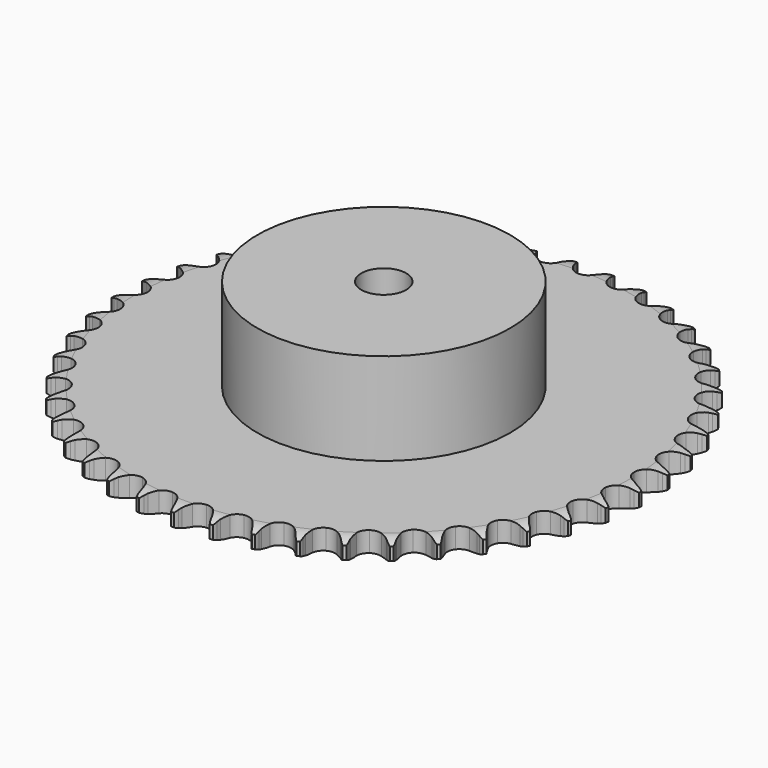
from build123d import *

# Parameters (mm, degrees)
PAD_DEPTH         = 7.2
SKETCH001_R       = 45
PAD001_DEPTH      = 40
SKETCH002_R       = 8
POCKET_DEPTH      = 0.001
POCKET_DEPTH_BACK = 40.001


with BuildPart() as part:
    # Sprocket → Pad (new body)
    with BuildSketch(Plane.XY):
        with BuildLine():
            ThreePointArc((-6.615982, 94.612948), (-5.918662, 93.611701), (-5.409379, 92.502926))
            Line((-5.409379, 92.502926), (-4.994949, 91.337641))
            ThreePointArc((-4.994949, 91.337641), (-4.340108, 89.850575), (-3.47559, 88.474788))
            ThreePointArc((-3.47559, 88.474788), (-1.947495, 87.18116), (0, 86.716603))
            ThreePointArc((0, 86.716603), (1.947495, 87.18116), (3.47559, 88.474788))
            ThreePointArc((3.47559, 88.474788), (4.340108, 89.850575), (4.994949, 91.337641))
            Line((4.994949, 91.337641), (5.409379, 92.502926))
            ThreePointArc((5.409379, 92.502926), (5.918662, 93.611701), (6.615982, 94.612948))
            ThreePointArc((6.615982, 94.612948), (7.167169, 93.524397), (7.517184, 92.355534))
            Line((7.517184, 92.355534), (7.765405, 91.143912))
            ThreePointArc((7.765405, 91.143912), (8.206913, 89.580182), (8.871545, 88.097466))
            ThreePointArc((8.871545, 88.097466), (10.20473, 86.603758), (12.068618, 85.872683))
            ThreePointArc((12.068618, 85.872683), (14.061814, 86.06168), (15.755077, 87.130049))
            Line((15.755077, 87.130049), (17.658081, 89.753587))
            ThreePointArc((17.658081, 89.753587), (17.929118, 90.309685), (18.230654, 90.849854))
            ThreePointArc((18.230654, 90.849854), (18.889293, 91.87696), (19.719173, 92.771414))
            ThreePointArc((19.719173, 92.771414), (20.113499, 91.616747), (20.297433, 90.410547))
            Line((20.297433, 90.410547), (20.374613, 89.17617))
            ThreePointArc((20.374613, 89.17617), (20.594196, 87.566212), (21.046005, 86.005428))
            ThreePointArc((21.046005, 86.005428), (22.158332, 84.340712), (23.902335, 83.357348))
            ThreePointArc((23.902335, 83.357348), (25.902437, 83.267107), (27.727909, 84.089423))
            Line((27.727909, 84.089423), (29.977518, 86.422581))
            ThreePointArc((29.977518, 86.422581), (30.323312, 86.935547), (30.697091, 87.428493))
            ThreePointArc((30.697091, 87.428493), (31.492265, 88.353938), (32.438553, 89.124191))
            ThreePointArc((32.438553, 89.124191), (32.668342, 87.925881), (32.682616, 86.705821))
            Line((32.682616, 86.705821), (32.587253, 85.472715))
            ThreePointArc((32.587253, 85.472715), (32.580636, 83.847866), (32.810829, 82.239391))
            ThreePointArc((32.810829, 82.239391), (33.680647, 80.43607), (35.27082, 79.219558))
            ThreePointArc((35.27082, 79.219558), (37.238897, 78.851835), (39.161048, 79.412091))
            Line((39.161048, 79.412091), (41.713478, 81.409458))
            ThreePointArc((41.713478, 81.409458), (42.127297, 81.869307), (42.566043, 82.305436))
            ThreePointArc((42.566043, 82.305436), (43.482276, 83.111207), (44.526553, 83.742266))
            ThreePointArc((44.526553, 83.742266), (44.587334, 82.523638), (44.431669, 81.313465))
            Line((44.431669, 81.313465), (44.165619, 80.105632))
            ThreePointArc((44.165619, 80.105632), (43.932931, 78.497516), (43.937027, 76.872658))
            ThreePointArc((43.937027, 76.872658), (44.547407, 74.965832), (45.952798, 73.53985))
            ThreePointArc((45.952798, 73.53985), (47.850545, 72.901802), (49.831962, 73.189094))
            Line((49.831962, 73.189094), (52.637532, 74.811793))
            ThreePointArc((52.637532, 74.811793), (53.111322, 75.209574), (53.606496, 75.580397))
            ThreePointArc((53.606496, 75.580397), (54.625954, 76.250812), (55.747894, 76.730394))
            ThreePointArc((55.747894, 76.730394), (55.638483, 75.515166), (55.31591, 74.338435))
            Line((55.31591, 74.338435), (54.884351, 73.179383))
            ThreePointArc((54.884351, 73.179383), (54.430121, 71.619301), (54.208041, 70.009686))
            ThreePointArc((54.208041, 70.009686), (54.547102, 68.036469), (55.740358, 66.428772))
            ThreePointArc((55.740358, 66.428772), (57.530837, 65.532818), (59.532954, 65.541554))
            Line((59.532954, 65.541554), (62.537056, 66.758001))
            ThreePointArc((62.537056, 66.758001), (63.061596, 67.085972), (63.60356, 67.384271))
            ThreePointArc((63.60356, 67.384271), (64.7064, 67.906281), (65.884167, 68.225052))
            ThreePointArc((65.884167, 68.225052), (65.606693, 67.036877), (65.12349, 65.916491))
            Line((65.12349, 65.916491), (64.534822, 64.828781))
            ThreePointArc((64.534822, 64.828781), (63.867891, 63.347099), (63.423957, 61.784056))
            ThreePointArc((63.423957, 61.784056), (63.4851, 59.782853), (64.442995, 58.024733))
            ThreePointArc((64.442995, 58.024733), (66.091356, 56.888312), (68.075205, 56.618322))
            Line((68.075205, 56.618322), (71.219368, 57.404841))
            ThreePointArc((71.219368, 57.404841), (71.784448, 57.656618), (72.362652, 57.876587))
            ThreePointArc((72.362652, 57.876587), (73.527409, 58.240031), (74.738078, 58.391786))
            ThreePointArc((74.738078, 58.391786), (74.297943, 57.253792), (73.663515, 56.211558))
            Line((73.663515, 56.211558), (72.929196, 55.216361))
            ThreePointArc((72.929196, 55.216361), (72.062545, 53.841916), (71.405398, 52.355869))
            ThreePointArc((71.405398, 52.355869), (71.187432, 50.365632), (71.891322, 48.491309))
            ThreePointArc((71.891322, 48.491309), (73.365483, 47.13654), (75.292449, 46.593079))
            Line((75.292449, 46.593079), (78.515476, 46.93436))
            ThreePointArc((78.515476, 46.93436), (79.110097, 47.105043), (79.713288, 47.242402))
            ThreePointArc((79.713288, 47.242402), (80.917291, 47.440206), (82.137298, 47.421991))
            ThreePointArc((82.137298, 47.421991), (81.543069, 46.356327), (80.769764, 45.412532))
            Line((80.769764, 45.412532), (79.904086, 44.529216))
            ThreePointArc((79.904086, 44.529216), (78.854584, 43.288763), (77.997014, 41.908634))
            ThreePointArc((77.997014, 41.908634), (77.504182, 39.968102), (77.940366, 38.014057))
            ThreePointArc((77.940366, 38.014057), (79.211633, 36.467308), (81.044211, 35.660955))
            Line((81.044211, 35.660955), (84.283369, 35.550356))
            ThreePointArc((84.283369, 35.550356), (84.895958, 35.636623), (85.512395, 35.688696))
            ThreePointArc((85.512395, 35.688696), (86.73221, 35.717011), (87.93781, 35.529181))
            ThreePointArc((87.93781, 35.529181), (87.201051, 34.556589), (86.303921, 33.729601))
            Line((86.303921, 33.729601), (85.323734, 32.975362))
            ThreePointArc((85.323734, 32.975362), (84.111808, 31.893042), (83.070507, 30.645696))
            ThreePointArc((83.070507, 30.645696), (82.312401, 28.792638), (82.47239, 26.796904))
            ThreePointArc((82.47239, 26.796904), (83.516019, 25.088282), (85.21854, 24.03473))
            Line((85.21854, 24.03473), (88.410782, 23.474405))
            ThreePointArc((88.410782, 23.474405), (89.029415, 23.474576), (89.647101, 23.440351))
            ThreePointArc((89.647101, 23.440351), (90.858985, 23.298624), (92.026711, 22.944836))
            ThreePointArc((92.026711, 22.944836), (91.161764, 22.084245), (90.15827, 21.390163))
            Line((90.15827, 21.390163), (89.082653, 20.779679))
            ThreePointArc((89.082653, 20.779679), (87.731891, 19.87656), (86.527128, 18.786274))
            ThreePointArc((86.527128, 18.786274), (85.518503, 17.056758), (85.399183, 15.05818))
            ThreePointArc((85.399183, 15.05818), (86.194861, 13.220942), (87.734187, 11.940697))
            Line((87.734187, 11.940697), (90.81738, 10.941551))
            ThreePointArc((90.81738, 10.941551), (91.430017, 10.855623), (92.036928, 10.735766))
            ThreePointArc((92.036928, 10.735766), (93.217294, 10.426757), (94.324418, 9.913896))
            ThreePointArc((94.324418, 9.913896), (93.348117, 9.182058), (92.257792, 8.634389))
            Line((92.257792, 8.634389), (91.107679, 8.179543))
            ThreePointArc((91.107679, 8.179543), (89.644373, 7.473204), (88.299596, 6.561199))
            ThreePointArc((88.299596, 6.561199), (87.060085, 4.988887), (86.663777, 3.026366))
            ThreePointArc((86.663777, 3.026366), (87.196018, 1.09627), (88.542188, -0.385747))
            Line((88.542188, -0.385747), (91.456321, -1.804268))
            ThreePointArc((91.456321, -1.804268), (92.051037, -1.974622), (92.635361, -2.177778))
            ThreePointArc((92.635361, -2.177778), (93.761233, -2.648055), (94.786206, -3.310007))
            ThreePointArc((94.786206, -3.310007), (93.717555, -3.898848), (92.56162, -4.289443))
            Line((92.56162, -4.289443), (91.359398, -4.579798))
            ThreePointArc((91.359398, -4.579798), (89.812029, -5.07561), (88.353412, -5.791583))
            ThreePointArc((88.353412, -5.791583), (86.907141, -7.176086), (86.24156, -9.064353))
            ThreePointArc((86.24156, -9.064353), (86.500004, -11.049739), (87.626816, -12.704684))
            Line((87.626816, -12.704684), (90.315169, -14.514969))
            ThreePointArc((90.315169, -14.514969), (90.880388, -14.766433), (91.430752, -15.048935))
            ThreePointArc((91.430752, -15.048935), (92.480218, -15.671326), (93.40309, -16.469485))
            ThreePointArc((93.40309, -16.469485), (92.262887, -16.903868), (91.063841, -17.129786))
            Line((91.063841, -17.129786), (89.83291, -17.249998))
            ThreePointArc((89.83291, -17.249998), (88.231596, -17.525634), (86.68753, -18.031638))
            ThreePointArc((86.68753, -18.031638), (85.062649, -19.201386), (84.140749, -20.978645))
            ThreePointArc((84.140749, -20.978645), (84.120365, -22.980677), (85.005888, -24.776339))
            Line((85.005888, -24.776339), (87.416135, -26.943152))
            ThreePointArc((87.416135, -26.943152), (87.940856, -27.270833), (88.446547, -27.627181))
            ThreePointArc((88.446547, -27.627181), (89.399179, -28.389573), (90.201988, -29.308402))
            ThreePointArc((90.201988, -29.308402), (89.012427, -29.579873), (87.793609, -29.636717))
            Line((87.793609, -29.636717), (86.557926, -29.584447))
            ThreePointArc((86.557926, -29.584447), (84.933836, -29.63454), (83.334374, -29.920728))
            ThreePointArc((83.334374, -29.920728), (81.562508, -30.852952), (80.402234, -32.484611))
            ThreePointArc((80.402234, -32.484611), (80.10342, -34.464323), (80.730416, -36.36575))
            Line((80.730416, -36.36575), (82.815645, -38.846918))
            ThreePointArc((82.815645, -38.846918), (83.289655, -39.244437), (83.740831, -39.667695))
            ThreePointArc((83.740831, -39.667695), (84.578088, -40.555248), (85.245207, -41.576865))
            ThreePointArc((85.245207, -41.576865), (84.029442, -41.680139), (82.814574, -41.566804))
            Line((82.814574, -41.566804), (81.598191, -41.343068))
            ThreePointArc((81.598191, -41.343068), (79.982935, -41.166644), (78.359209, -41.227445))
            ThreePointArc((78.359209, -41.227445), (76.474847, -41.904), (75.098781, -43.358301))
            ThreePointArc((75.098781, -43.358301), (74.527352, -45.27716), (74.883619, -47.247344))
            Line((74.883619, -47.247344), (76.603243, -49.994573))
            ThreePointArc((76.603243, -49.994573), (77.017316, -50.454192), (77.405195, -50.936123))
            ThreePointArc((77.405195, -50.936123), (78.11078, -51.931562), (78.629225, -53.036082))
            ThreePointArc((78.629225, -53.036082), (77.410919, -52.969149), (76.223647, -52.687839))
            Line((76.223647, -52.687839), (75.05024, -52.296993))
            ThreePointArc((75.05024, -52.296993), (73.475257, -51.897486), (71.858872, -51.731716))
            ThreePointArc((71.858872, -51.731716), (69.898689, -52.139435), (68.333615, -53.388072))
            ThreePointArc((68.333615, -53.388072), (67.500694, -55.208728), (67.579298, -57.209321))
            Line((67.579298, -57.209321), (68.899846, -60.16914))
            ThreePointArc((68.899846, -60.16914), (69.245923, -60.681914), (69.562955, -61.213137))
            ThreePointArc((69.562955, -61.213137), (70.123135, -62.297087), (70.482815, -63.463012))
            ThreePointArc((70.482815, -63.463012), (69.285681, -63.227174), (68.149114, -62.783366))
            Line((68.149114, -62.783366), (67.041522, -62.233017))
            ThreePointArc((67.041522, -62.233017), (65.537466, -61.618203), (63.959883, -61.229089))
            ThreePointArc((63.959883, -61.229089), (61.962033, -61.360035), (60.238414, -62.378704))
            ThreePointArc((60.238414, -62.378704), (59.160212, -64.065722), (58.959622, -66.057784))
            Line((58.959622, -66.057784), (59.855391, -69.172583))
            ThreePointArc((59.855391, -69.172583), (60.126736, -69.728532), (60.366751, -70.298707))
            ThreePointArc((60.366751, -70.298707), (60.770622, -71.45007), (60.964537, -72.654706))
            ThreePointArc((60.964537, -72.654706), (59.811875, -72.254555), (58.748135, -71.656886))
            Line((58.748135, -71.656886), (57.727916, -70.957746))
            ThreePointArc((57.727916, -70.957746), (56.324064, -70.139591), (54.815987, -69.534707))
            ThreePointArc((54.815987, -69.534707), (52.819357, -69.386331), (50.97074, -70.155205))
            ThreePointArc((50.97074, -70.155205), (49.668244, -71.675749), (49.192364, -73.620508))
            Line((49.192364, -73.620508), (49.64592, -76.829661))
            ThreePointArc((49.64592, -76.829661), (49.837251, -77.417963), (49.995576, -78.015993))
            ThreePointArc((49.995576, -78.015993), (50.235279, -79.212359), (50.259654, -80.432259))
            ThreePointArc((50.259654, -80.432259), (49.1739, -79.875582), (48.203692, -79.135687))
            Line((48.203692, -79.135687), (47.290703, -78.301364))
            ThreePointArc((47.290703, -78.301364), (46.014378, -77.295792), (44.605161, -76.486911))
            ThreePointArc((44.605161, -76.486911), (42.648611, -76.062102), (40.710979, -76.566216))
            ThreePointArc((40.710979, -76.566216), (39.20954, -77.890689), (38.467633, -79.750292))
            Line((38.467633, -79.750292), (38.470147, -82.991336))
            ThreePointArc((38.470147, -82.991336), (38.57774, -83.600541), (38.651295, -84.214786))
            ThreePointArc((38.651295, -84.214786), (38.722163, -85.432869), (38.576523, -86.64429))
            ThreePointArc((38.576523, -86.64429), (37.57881, -85.941923), (36.721018, -85.074201))
            Line((36.721018, -85.074201), (35.933029, -84.120934))
            ThreePointArc((35.933029, -84.120934), (34.809074, -82.947518), (33.526146, -81.950384))
            ThreePointArc((33.526146, -81.950384), (31.647759, -81.25741), (29.658825, -81.486952))
            ThreePointArc((29.658825, -81.486952), (27.987666, -82.589575), (26.994173, -84.327828))
            Line((26.994173, -84.327828), (26.545597, -87.53768))
            ThreePointArc((26.545597, -87.53768), (26.567358, -88.15593), (26.554711, -88.774434))
            ThreePointArc((26.554711, -88.774434), (26.455364, -89.990526), (26.142545, -91.169888))
            ThreePointArc((26.142545, -91.169888), (25.252292, -90.335502), (24.523611, -89.356842))
            Line((24.523611, -89.356842), (23.87596, -88.303186))
            ThreePointArc((23.87596, -88.303186), (22.926251, -86.984766), (21.794583, -85.818786))
            ThreePointArc((21.794583, -85.818786), (20.03092, -84.871136), (18.029395, -84.821637))
            ThreePointArc((18.029395, -84.821637), (16.221045, -85.680949), (14.995303, -87.264018))
            Line((14.995303, -87.264018), (14.104366, -90.380202))
            ThreePointArc((14.104366, -90.380202), (14.039872, -90.995464), (13.941269, -91.606189))
            ThreePointArc((13.941269, -91.606189), (13.673642, -92.79662), (13.199731, -93.920968))
            ThreePointArc((13.199731, -93.920968), (12.434267, -92.970802), (11.84888, -91.900255))
            Line((11.84888, -91.900255), (11.354173, -90.766717))
            ThreePointArc((11.354173, -90.766717), (10.597195, -89.328953), (9.638813, -88.016823))
            ThreePointArc((9.638813, -88.016823), (8.024201, -86.832941), (6.049044, -86.505365))
            ThreePointArc((6.049044, -86.505365), (4.138699, -87.104641), (2.704565, -88.501713))
            Line((2.704565, -88.501713), (1.388611, -91.463577))
            ThreePointArc((1.388611, -91.463577), (1.239116, -92.063875), (1.056476, -92.654933))
            ThreePointArc((1.056476, -92.654933), (0.625778, -93.796532), (0, -94.843983))
            ThreePointArc((0, -94.843983), (-0.625778, -93.796532), (-1.056476, -92.654933))
            Line((-1.056476, -92.654933), (-1.388611, -91.463577))
            ThreePointArc((-1.388611, -91.463577), (-1.938124, -89.934454), (-2.704565, -88.501713))
            ThreePointArc((-2.704565, -88.501713), (-4.138699, -87.104641), (-6.049044, -86.505365))
            ThreePointArc((-6.049044, -86.505365), (-8.024201, -86.832941), (-9.638813, -88.016823))
            Line((-9.638813, -88.016823), (-11.354173, -90.766717))
            ThreePointArc((-11.354173, -90.766717), (-11.585758, -91.340367), (-11.84888, -91.900255))
            ThreePointArc((-11.84888, -91.900255), (-12.434267, -92.970802), (-13.199731, -93.920968))
            ThreePointArc((-13.199731, -93.920968), (-13.673642, -92.79662), (-13.941269, -91.606189))
            Line((-13.941269, -91.606189), (-14.104366, -90.380202))
            ThreePointArc((-14.104366, -90.380202), (-14.435719, -88.789484), (-14.995303, -87.264018))
            ThreePointArc((-14.995303, -87.264018), (-16.221045, -85.680949), (-18.029395, -84.821637))
            ThreePointArc((-18.029395, -84.821637), (-20.03092, -84.871136), (-21.794583, -85.818786))
            Line((-21.794583, -85.818786), (-23.87596, -88.303186))
            ThreePointArc((-23.87596, -88.303186), (-24.185129, -88.839023), (-24.523611, -89.356842))
            ThreePointArc((-24.523611, -89.356842), (-25.252292, -90.335502), (-26.142545, -91.169888))
            ThreePointArc((-26.142545, -91.169888), (-26.455364, -89.990526), (-26.554711, -88.774434))
            Line((-26.554711, -88.774434), (-26.545597, -87.53768))
            ThreePointArc((-26.545597, -87.53768), (-26.652339, -85.916327), (-26.994173, -84.327828))
            ThreePointArc((-26.994173, -84.327828), (-27.987666, -82.589575), (-29.658825, -81.486952))
            ThreePointArc((-29.658825, -81.486952), (-31.647759, -81.25741), (-33.526146, -81.950384))
            Line((-33.526146, -81.950384), (-35.933029, -84.120934))
            ThreePointArc((-35.933029, -84.120934), (-36.313763, -84.608529), (-36.721018, -85.074201))
            ThreePointArc((-36.721018, -85.074201), (-37.57881, -85.941923), (-38.576523, -86.64429))
            ThreePointArc((-38.576523, -86.64429), (-38.722163, -85.432869), (-38.651295, -84.214786))
            Line((-38.651295, -84.214786), (-38.470147, -82.991336))
            ThreePointArc((-38.470147, -82.991336), (-38.350202, -81.370906), (-38.467633, -79.750292))
            ThreePointArc((-38.467633, -79.750292), (-39.20954, -77.890689), (-40.710979, -76.566216))
            ThreePointArc((-40.710979, -76.566216), (-42.648611, -76.062102), (-44.605161, -76.486911))
            Line((-44.605161, -76.486911), (-47.290703, -78.301364))
            ThreePointArc((-47.290703, -78.301364), (-47.735591, -78.731225), (-48.203692, -79.135687))
            ThreePointArc((-48.203692, -79.135687), (-49.1739, -79.875582), (-50.259654, -80.432259))
            ThreePointArc((-50.259654, -80.432259), (-50.235279, -79.212359), (-49.995576, -78.015993))
            Line((-49.995576, -78.015993), (-49.64592, -76.829661))
            ThreePointArc((-49.64592, -76.829661), (-49.301622, -75.241694), (-49.192364, -73.620508))
            ThreePointArc((-49.192364, -73.620508), (-49.668244, -71.675749), (-50.97074, -70.155205))
            ThreePointArc((-50.97074, -70.155205), (-52.819357, -69.386331), (-54.815987, -69.534707))
            Line((-54.815987, -69.534707), (-57.727916, -70.957746))
            ThreePointArc((-57.727916, -70.957746), (-58.228301, -71.321508), (-58.748135, -71.656886))
            ThreePointArc((-58.748135, -71.656886), (-59.811875, -72.254555), (-60.964537, -72.654706))
            ThreePointArc((-60.964537, -72.654706), (-60.770622, -71.45007), (-60.366751, -70.298707))
            Line((-60.366751, -70.298707), (-59.855391, -69.172583))
            ThreePointArc((-59.855391, -69.172583), (-59.293442, -67.647987), (-58.959622, -66.057784))
            ThreePointArc((-58.959622, -66.057784), (-59.160212, -64.065722), (-60.238414, -62.378704))
            ThreePointArc((-60.238414, -62.378704), (-61.962033, -61.360035), (-63.959883, -61.229089))
            Line((-63.959883, -61.229089), (-67.041522, -62.233017))
            ThreePointArc((-67.041522, -62.233017), (-67.587662, -62.523599), (-68.149114, -62.783366))
            ThreePointArc((-68.149114, -62.783366), (-69.285681, -63.227174), (-70.482815, -63.463012))
            ThreePointArc((-70.482815, -63.463012), (-70.123135, -62.297087), (-69.562955, -61.213137))
            Line((-69.562955, -61.213137), (-68.899846, -60.16914))
            ThreePointArc((-68.899846, -60.16914), (-68.131182, -58.737589), (-67.579298, -57.209321))
            ThreePointArc((-67.579298, -57.209321), (-67.500694, -55.208728), (-68.333615, -53.388072))
            ThreePointArc((-68.333615, -53.388072), (-69.898689, -52.139435), (-71.858872, -51.731716))
            Line((-71.858872, -51.731716), (-75.05024, -52.296993))
            ThreePointArc((-75.05024, -52.296993), (-75.631507, -52.508739), (-76.223647, -52.687839))
            ThreePointArc((-76.223647, -52.687839), (-77.410919, -52.969149), (-78.629225, -53.036082))
            ThreePointArc((-78.629225, -53.036082), (-78.11078, -51.931562), (-77.405195, -50.936123))
            Line((-77.405195, -50.936123), (-76.603243, -49.994573))
            ThreePointArc((-76.603243, -49.994573), (-75.642827, -48.683931), (-74.883619, -47.247344))
            ThreePointArc((-74.883619, -47.247344), (-74.527352, -45.27716), (-75.098781, -43.358301))
            ThreePointArc((-75.098781, -43.358301), (-76.474847, -41.904), (-78.359209, -41.227445))
            Line((-78.359209, -41.227445), (-81.598191, -41.343068))
            ThreePointArc((-81.598191, -41.343068), (-82.20327, -41.471856), (-82.814574, -41.566804))
            ThreePointArc((-82.814574, -41.566804), (-84.029442, -41.680139), (-85.245207, -41.576865))
            ThreePointArc((-85.245207, -41.576865), (-84.578088, -40.555248), (-83.740831, -39.667695))
            Line((-83.740831, -39.667695), (-82.815645, -38.846918))
            ThreePointArc((-82.815645, -38.846918), (-81.68217, -37.682696), (-80.730416, -36.36575))
            ThreePointArc((-80.730416, -36.36575), (-80.10342, -34.464323), (-80.402234, -32.484611))
            ThreePointArc((-80.402234, -32.484611), (-81.562508, -30.852952), (-83.334374, -29.920728))
            Line((-83.334374, -29.920728), (-86.557926, -29.584447))
            ThreePointArc((-86.557926, -29.584447), (-87.175041, -29.627771), (-87.793609, -29.636717))
            ThreePointArc((-87.793609, -29.636717), (-89.012427, -29.579873), (-90.201988, -29.308402))
            ThreePointArc((-90.201988, -29.308402), (-89.399179, -28.389573), (-88.446547, -27.627181))
            Line((-88.446547, -27.627181), (-87.416135, -26.943152))
            ThreePointArc((-87.416135, -26.943152), (-86.131662, -25.948009), (-85.005888, -24.776339))
            ThreePointArc((-85.005888, -24.776339), (-84.120365, -22.980677), (-84.140749, -20.978645))
            ThreePointArc((-84.140749, -20.978645), (-85.062649, -19.201386), (-86.68753, -18.031638))
            Line((-86.68753, -18.031638), (-89.83291, -17.249998))
            ThreePointArc((-89.83291, -17.249998), (-90.450048, -17.207015), (-91.063841, -17.129786))
            ThreePointArc((-91.063841, -17.129786), (-92.262887, -16.903868), (-93.40309, -16.469485))
            ThreePointArc((-93.40309, -16.469485), (-92.480218, -15.671326), (-91.430752, -15.048935))
            Line((-91.430752, -15.048935), (-90.315169, -14.514969))
            ThreePointArc((-90.315169, -14.514969), (-88.9047, -13.708275), (-87.626816, -12.704684))
            ThreePointArc((-87.626816, -12.704684), (-86.500004, -11.049739), (-86.24156, -9.064353))
            ThreePointArc((-86.24156, -9.064353), (-86.907141, -7.176086), (-88.353412, -5.791583))
            Line((-88.353412, -5.791583), (-91.359398, -4.579798))
            ThreePointArc((-91.359398, -4.579798), (-91.964548, -4.451344), (-92.56162, -4.289443))
            ThreePointArc((-92.56162, -4.289443), (-93.717555, -3.898848), (-94.786206, -3.310007))
            ThreePointArc((-94.786206, -3.310007), (-93.761233, -2.648055), (-92.635361, -2.177778))
            Line((-92.635361, -2.177778), (-91.456321, -1.804268))
            ThreePointArc((-91.456321, -1.804268), (-89.947308, -1.201724), (-88.542188, -0.385747))
            ThreePointArc((-88.542188, -0.385747), (-87.196018, 1.09627), (-86.663777, 3.026366))
            ThreePointArc((-86.663777, 3.026366), (-87.060085, 4.988887), (-88.299596, 6.561199))
            Line((-88.299596, 6.561199), (-91.107679, 8.179543))
            ThreePointArc((-91.107679, 8.179543), (-91.689063, 8.390968), (-92.257792, 8.634389))
            ThreePointArc((-92.257792, 8.634389), (-93.348117, 9.182058), (-94.324418, 9.913896))
            ThreePointArc((-94.324418, 9.913896), (-93.217294, 10.426757), (-92.036928, 10.735766))
            Line((-92.036928, 10.735766), (-90.81738, 10.941551))
            ThreePointArc((-90.81738, 10.941551), (-89.239195, 11.328217), (-87.734187, 11.940697))
            ThreePointArc((-87.734187, 11.940697), (-86.194861, 13.220942), (-85.399183, 15.05818))
            ThreePointArc((-85.399183, 15.05818), (-85.518503, 17.056758), (-86.527128, 18.786274))
            Line((-86.527128, 18.786274), (-89.082653, 20.779679))
            ThreePointArc((-89.082653, 20.779679), (-89.628954, 21.069959), (-90.15827, 21.390163))
            ThreePointArc((-90.15827, 21.390163), (-91.161764, 22.084245), (-92.026711, 22.944836))
            ThreePointArc((-92.026711, 22.944836), (-90.858985, 23.298624), (-89.647101, 23.440351))
            Line((-89.647101, 23.440351), (-88.410782, 23.474405))
            ThreePointArc((-88.410782, 23.474405), (-86.794142, 23.637667), (-85.21854, 24.03473))
            ThreePointArc((-85.21854, 24.03473), (-83.516019, 25.088282), (-82.47239, 26.796904))
            ThreePointArc((-82.47239, 26.796904), (-82.312401, 28.792638), (-83.070507, 30.645696))
            Line((-83.070507, 30.645696), (-85.323734, 32.975362))
            ThreePointArc((-85.323734, 32.975362), (-85.82432, 33.338847), (-86.303921, 33.729601))
            ThreePointArc((-86.303921, 33.729601), (-87.201051, 34.556589), (-87.93781, 35.529181))
            ThreePointArc((-87.93781, 35.529181), (-86.73221, 35.717011), (-85.512395, 35.688696))
            Line((-85.512395, 35.688696), (-84.283369, 35.550356))
            ThreePointArc((-84.283369, 35.550356), (-82.65974, 35.487037), (-81.044211, 35.660955))
            ThreePointArc((-81.044211, 35.660955), (-79.211633, 36.467308), (-77.940366, 38.014057))
            ThreePointArc((-77.940366, 38.014057), (-77.504182, 39.968102), (-77.997014, 41.908634))
            Line((-77.997014, 41.908634), (-79.904086, 44.529216))
            ThreePointArc((-79.904086, 44.529216), (-80.349213, 44.958832), (-80.769764, 45.412532))
            ThreePointArc((-80.769764, 45.412532), (-81.543069, 46.356327), (-82.137298, 47.421991))
            ThreePointArc((-82.137298, 47.421991), (-80.917291, 47.440206), (-79.713288, 47.242402))
            Line((-79.713288, 47.242402), (-78.515476, 46.93436))
            ThreePointArc((-78.515476, 46.93436), (-76.91646, 46.645692), (-75.292449, 46.593079))
            ThreePointArc((-75.292449, 46.593079), (-73.365483, 47.13654), (-71.891322, 48.491309))
            ThreePointArc((-71.891322, 48.491309), (-71.187432, 50.365632), (-71.405398, 52.355869))
            Line((-71.405398, 52.355869), (-72.929196, 55.216361))
            ThreePointArc((-72.929196, 55.216361), (-73.310199, 55.703745), (-73.663515, 56.211558))
            ThreePointArc((-73.663515, 56.211558), (-74.297943, 57.253792), (-74.738078, 58.391786))
            ThreePointArc((-74.738078, 58.391786), (-73.527409, 58.240031), (-72.362652, 57.876587))
            Line((-72.362652, 57.876587), (-71.219368, 57.404841))
            ThreePointArc((-71.219368, 57.404841), (-69.676089, 56.896441), (-68.075205, 56.618322))
            ThreePointArc((-68.075205, 56.618322), (-66.091356, 56.888312), (-64.442995, 58.024733))
            ThreePointArc((-64.442995, 58.024733), (-63.4851, 59.782853), (-63.423957, 61.784056))
            Line((-63.423957, 61.784056), (-64.534822, 64.828781))
            ThreePointArc((-64.534822, 64.828781), (-64.844287, 65.364447), (-65.12349, 65.916491))
            ThreePointArc((-65.12349, 65.916491), (-65.606693, 67.036877), (-65.884167, 68.225052))
            ThreePointArc((-65.884167, 68.225052), (-64.7064, 67.906281), (-63.60356, 67.384271))
            Line((-63.60356, 67.384271), (-62.537056, 66.758001))
            ThreePointArc((-62.537056, 66.758001), (-61.079552, 66.039766), (-59.532954, 65.541554))
            ThreePointArc((-59.532954, 65.541554), (-57.530837, 65.532818), (-55.740358, 66.428772))
            ThreePointArc((-55.740358, 66.428772), (-54.547102, 68.036469), (-54.208041, 70.009686))
            Line((-54.208041, 70.009686), (-54.884351, 73.179383))
            ThreePointArc((-54.884351, 73.179383), (-55.116254, 73.752906), (-55.31591, 74.338435))
            ThreePointArc((-55.31591, 74.338435), (-55.638483, 75.515166), (-55.747894, 76.730394))
            ThreePointArc((-55.747894, 76.730394), (-54.625954, 76.250812), (-53.606496, 75.580397))
            Line((-53.606496, 75.580397), (-52.637532, 74.811793))
            ThreePointArc((-52.637532, 74.811793), (-51.294171, 73.897703), (-49.831962, 73.189094))
            ThreePointArc((-49.831962, 73.189094), (-47.850545, 72.901802), (-45.952798, 73.53985))
            ThreePointArc((-45.952798, 73.53985), (-44.547407, 74.965832), (-43.937027, 76.872658))
            Line((-43.937027, 76.872658), (-44.165619, 80.105632))
            ThreePointArc((-44.165619, 80.105632), (-44.315446, 80.705847), (-44.431669, 81.313465))
            ThreePointArc((-44.431669, 81.313465), (-44.587334, 82.523638), (-44.526553, 83.742266))
            ThreePointArc((-44.526553, 83.742266), (-43.482276, 83.111207), (-42.566043, 82.305436))
            Line((-42.566043, 82.305436), (-41.713478, 81.409458))
            ThreePointArc((-41.713478, 81.409458), (-40.510407, 80.317304), (-39.161048, 79.412091))
            ThreePointArc((-39.161048, 79.412091), (-37.238897, 78.851835), (-35.27082, 79.219558))
            ThreePointArc((-35.27082, 79.219558), (-33.680647, 80.43607), (-32.810829, 82.239391))
            Line((-32.810829, 82.239391), (-32.587253, 85.472715))
            ThreePointArc((-32.587253, 85.472715), (-32.652088, 86.087942), (-32.682616, 86.705821))
            ThreePointArc((-32.682616, 86.705821), (-32.668342, 87.925881), (-32.438553, 89.124191))
            ThreePointArc((-32.438553, 89.124191), (-31.492265, 88.353938), (-30.697091, 87.428493))
            Line((-30.697091, 87.428493), (-29.977518, 86.422581))
            ThreePointArc((-29.977518, 86.422581), (-28.938154, 85.173621), (-27.727909, 84.089423))
            ThreePointArc((-27.727909, 84.089423), (-25.902437, 83.267107), (-23.902335, 83.357348))
            ThreePointArc((-23.902335, 83.357348), (-22.158332, 84.340712), (-21.046005, 86.005428))
            Line((-21.046005, 86.005428), (-20.374613, 89.17617))
            ThreePointArc((-20.374613, 89.17617), (-20.353194, 89.794432), (-20.297433, 90.410547))
            ThreePointArc((-20.297433, 90.410547), (-20.113499, 91.616747), (-19.719173, 92.771414))
            ThreePointArc((-19.719173, 92.771414), (-18.889293, 91.87696), (-18.230654, 90.849854))
            Line((-18.230654, 90.849854), (-17.658081, 89.753587))
            ThreePointArc((-17.658081, 89.753587), (-16.802653, 88.372129), (-15.755077, 87.130049))
            ThreePointArc((-15.755077, 87.130049), (-14.061814, 86.06168), (-12.068618, 85.872683))
            ThreePointArc((-12.068618, 85.872683), (-10.20473, 86.603758), (-8.871545, 88.097466))
            Line((-8.871545, 88.097466), (-7.765405, 91.143912))
            ThreePointArc((-7.765405, 91.143912), (-7.658149, 91.753176), (-7.517184, 92.355534))
            ThreePointArc((-7.517184, 92.355534), (-7.167169, 93.524397), (-6.615982, 94.612948))
        make_face()
    extrude(amount=PAD_DEPTH)

    # Sketch → Groove (revolve, cut)
    with BuildSketch(Plane.XZ):
        with BuildLine():
            Line((88.333431, 0), (94, 0))
            Line((99.666569, 0), (94, 0))
            Line((99.666569, 7.2), (99.666569, 0))
            Line((94, 7.2), (99.666569, 7.2))
            Line((88.333431, 7.2), (94, 7.2))
            ThreePointArc((94, 5.9), (91.24032, 6.870833), (88.333431, 7.2))
            Line((94, 1.3), (94, 5.9))
            ThreePointArc((88.333431, 0), (91.24032, 0.329167), (94, 1.3))
        make_face()
    revolve(axis=Axis((0, 0, 0), (0, 0, 1)), mode=Mode.SUBTRACT)

    # Sketch001 → Pad001 (join)
    with BuildSketch(Plane.XY):
        Circle(SKETCH001_R)
    extrude(amount=PAD001_DEPTH)

    # Sketch002 → Pocket (cut, two sides)
    with BuildSketch(Plane.XY) as pocket_sk:
        Circle(SKETCH002_R)
    extrude(amount=-POCKET_DEPTH, mode=Mode.SUBTRACT)
    extrude(pocket_sk.sketch, amount=POCKET_DEPTH_BACK, mode=Mode.SUBTRACT)


solid = part.part
